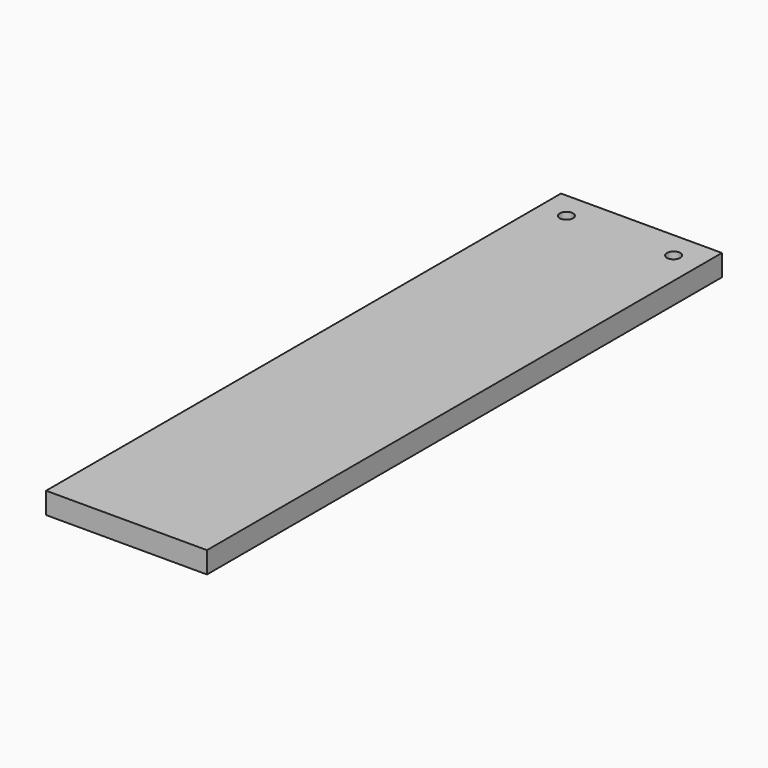
from build123d import *

# Parameters (mm, degrees)
F1_DEPTH = 10.16
F2_R     = 3.175
F3_DEPTH = 25.4
F4_W     = 12.7
F4_H     = 12.7
F5_DEPTH = 25.4


with BuildPart() as f1:
    # F0 (on Top) → F1 (new body)
    with BuildSketch(Plane.XY):
        Polygon((-38.1, 152.4), (-38.1, -76.2), (-38.1, -152.4), (38.1, -152.4), (38.1, -76.2), (38.1, 152.4), align=None)
    extrude(amount=F1_DEPTH)

    # F2 (on face) → F3 (cut)
    with BuildSketch(Plane.XY.offset(10.16)):
        with Locations((25.4, 139.7)):
            Circle(F2_R)
        with Locations((-25.4, 139.7)):
            Circle(F2_R)
    extrude(amount=-F3_DEPTH, mode=Mode.SUBTRACT)

    # F4 (on face) → F5 (join)
    with BuildSketch(Plane(origin=(0, 0, 0), x_dir=(1, 0, 0), z_dir=(0, 0, -1))):
        with Locations((0, -127)):
            Rectangle(F4_W, F4_H)
    extrude(amount=F5_DEPTH)


solid = f1.part
